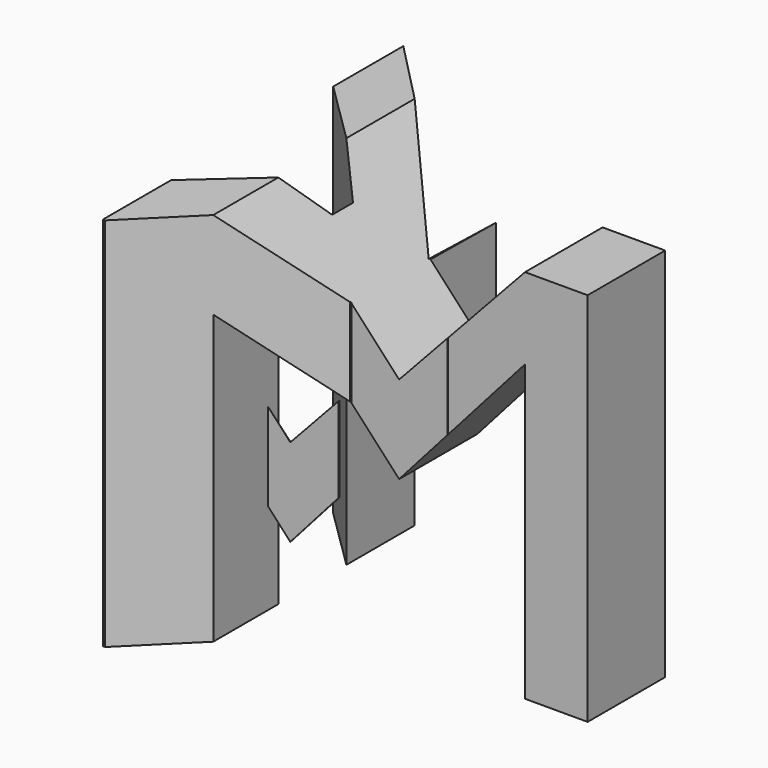
from build123d import *

# Parameters (mm, degrees)
F0_W     = 38.1
F0_H     = 38.1
F1_DEPTH = 38.1
F3_DEPTH = 38.1
F4_DEPTH = 38.1
F6_W     = 14.284089
F6_H     = 13.870054
F7_DEPTH = 38.1
F9_DEPTH = 38.1


with BuildPart() as f1:
    # F0 (on Front) → F1 (new body)
    with BuildSketch(Plane.XZ):
        with Locations((19.05, 19.05)):
            Rectangle(F0_W, F0_H)
    extrude(amount=F1_DEPTH)

    # F2 (on face) → F3 (cut)
    with BuildSketch(Plane.XZ.offset(38.1)):
        Polygon((31.75, 38.1), (6.35, 38.1), (19.021031, 24.38806), align=None)
    extrude(amount=-F3_DEPTH, mode=Mode.SUBTRACT)

    # F2 (on face) → F4 (cut)
    with BuildSketch(Plane.XZ.offset(38.1)):
        Polygon((19.021031, 15.49806), (6.35, 29.21), (6.35, 0), (31.75, 0), (31.75, 29.871542), align=None)
    extrude(amount=-F4_DEPTH, mode=Mode.SUBTRACT)

    # F6 (on offset) → F7 (cut)
    with BuildSketch(Plane.XY.offset(38.1)):
        with Locations((31.066571, -31.190644)):
            Rectangle(F6_W, F6_H)
        Polygon((24.028033, 0), (23.924526, -14.422366), (38.208615, -14.422366), (38.208615, 0), align=None)
        Polygon((0, 0), (14.194785, -14.525875), (14.401801, 0), align=None)
        Polygon((0, -8.89), (0, -29.44269), (9.536929, -20.943364), (9.536929, -18.301016), align=None)
        Polygon((14.194785, -24.255617), (0, -38.33269), (14.091277, -38.33269), (14.099041, -37.276795), align=None)
    extrude(amount=-F7_DEPTH, mode=Mode.SUBTRACT)

    # F8 (on Top) → F9 (cut)
    with BuildSketch(Plane.XY):
        Polygon((14.351379, 0), (14.26434, -14.385366), (24.099793, -14.385366), (24.099793, 0), align=None)
        Polygon((14.09026, -24.307858), (14.09026, -38.147125), (23.925714, -37.973043), (23.925714, -24.307858), align=None)
    extrude(amount=F9_DEPTH, mode=Mode.SUBTRACT)


solid = f1.part
